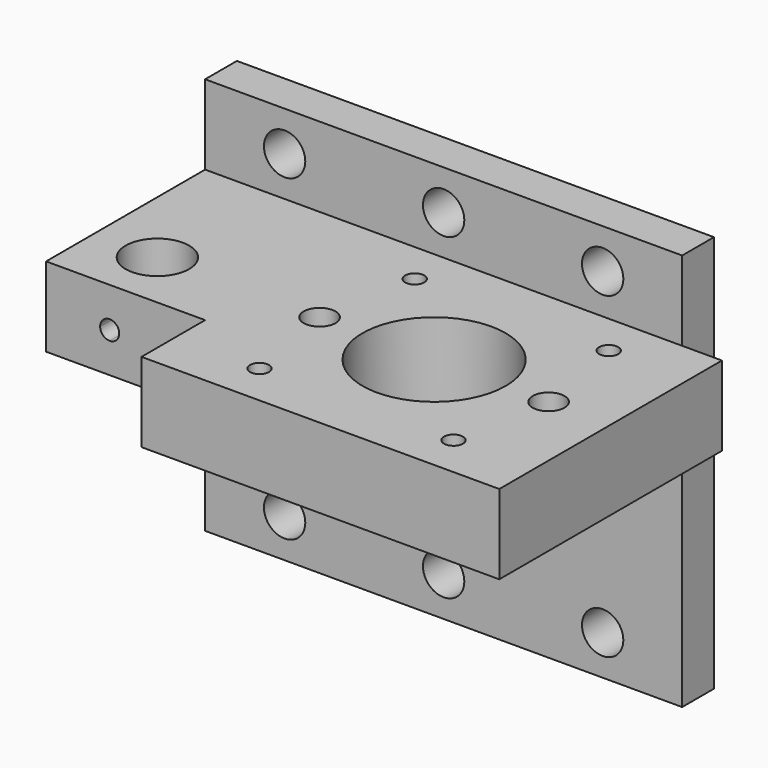
from build123d import *

# Parameters (mm, degrees)
F0_W      = 76.2
F0_H      = 12.7
F0_R      = 3.302
F1_DEPTH  = 6.35
F0_H_2    = 38.1
F2_DEPTH  = 50.8
F4_R      = 1.524
F4_R_2    = 11.43
F4_R_3    = 5.08
F4_W      = 25.4
F4_H      = 12.7
F5_DEPTH  = 50.8
F6_DEPTH  = 25.4
F8_DEPTH  = 7.62
F9_W      = 44.45
F9_H      = 12.7
F10_DEPTH = 6.35
F12_DEPTH = 25.4


with BuildPart() as f1:
    # F0 (on Front) → F1 (new body)
    with BuildSketch(Plane.XZ):
        with Locations((-38.1, 6.35)):
            Rectangle(F0_W, F0_H)
        with Locations((-63.5, 6.35)):
            Circle(F0_R, mode=Mode.SUBTRACT)
        with Locations((-38.1, 6.35)):
            Circle(F0_R, mode=Mode.SUBTRACT)
        with Locations((-12.7, 6.35)):
            Circle(F0_R, mode=Mode.SUBTRACT)
    extrude(amount=F1_DEPTH)


with BuildPart() as f1b:
    # F0 (on Front) → F1, piece 2 (new body)
    with BuildSketch(Plane.XZ):
        with Locations((-38.1, -44.45)):
            Rectangle(F0_W, F0_H)
        with Locations((-63.5, -44.45)):
            Circle(F0_R, mode=Mode.SUBTRACT)
        with Locations((-38.1, -44.45)):
            Circle(F0_R, mode=Mode.SUBTRACT)
        with Locations((-12.7, -44.45)):
            Circle(F0_R, mode=Mode.SUBTRACT)
    extrude(amount=F1_DEPTH)


with BuildPart() as f2:
    # F0 (on Front) → F2 (new body)
    with BuildSketch(Plane.XZ):
        with Locations((-38.1, -19.05)):
            Rectangle(F0_W, F0_H_2)
    extrude(amount=F2_DEPTH)


with BuildPart() as f1_1:
    add(f1.part)

    # F3: union F1b, F2
    add(f1b.part)
    add(f2.part)

    # F4 (on face) → F5 (cut)
    with BuildSketch(Plane.XY):
        with Locations((-6.35, -44.069)):
            Circle(F4_R)
        with Locations((-6.35, -13.081)):
            Circle(F4_R)
        with Locations((-37.338, -13.081)):
            Circle(F4_R)
        with Locations((-37.338, -44.069)):
            Circle(F4_R)
        with Locations((-21.844, -28.575)):
            Circle(F4_R_2)
        with Locations((-66.04, -28.575)):
            Circle(F4_R_3)
        with Locations((-63.5, -44.45)):
            Rectangle(F4_W, F4_H)
    extrude(amount=-F5_DEPTH, mode=Mode.SUBTRACT)

    # F6 (cut): a face of the model
    f6_faces = [f1_1.faces().sort_by_distance(p)[0] for p in [
        (-36.7979159702, -26.5619005098, -38.1),
    ]]
    extrude(f6_faces, amount=-F6_DEPTH, mode=Mode.SUBTRACT)

    # F7 (on face) → F8 (cut)
    with BuildSketch(Plane.XZ.offset(38.1)):
        with BuildLine():
            ThreePointArc((-66.04, -7.874), (-64.9623692655, -7.4276307345), (-64.516, -6.35))
            ThreePointArc((-64.516, -6.35), (-64.9623692655, -5.2723692655), (-66.04, -4.826))
            ThreePointArc((-66.04, -4.826), (-67.1176307345, -5.2723692655), (-67.564, -6.35))
            ThreePointArc((-67.564, -6.35), (-67.1176307345, -7.4276307345), (-66.04, -7.874))
        make_face()
    extrude(amount=-F8_DEPTH, mode=Mode.SUBTRACT)

    # F9 (on face) → F10 (join)
    with BuildSketch(Plane.YZ):
        with Locations((-28.575, -6.35)):
            Rectangle(F9_W, F9_H)
    extrude(amount=F10_DEPTH)

    # F11 (on face) → F12 (cut)
    with BuildSketch(Plane(origin=(0, 0, -12.7), x_dir=(1, 0, 0), z_dir=(0, 0, -1))):
        with BuildLine():
            ThreePointArc((-1.016, 28.575), (-3.556, 31.115), (-6.096, 28.575))
            ThreePointArc((-6.096, 28.575), (-3.556, 26.035), (-1.016, 28.575))
        make_face()
        with BuildLine():
            ThreePointArc((-42.672, 28.575), (-40.132, 26.035), (-37.592, 28.575))
            ThreePointArc((-37.592, 28.575), (-40.132, 31.115), (-42.672, 28.575))
        make_face()
    extrude(amount=-F12_DEPTH, mode=Mode.SUBTRACT)


solid = f1_1.part
